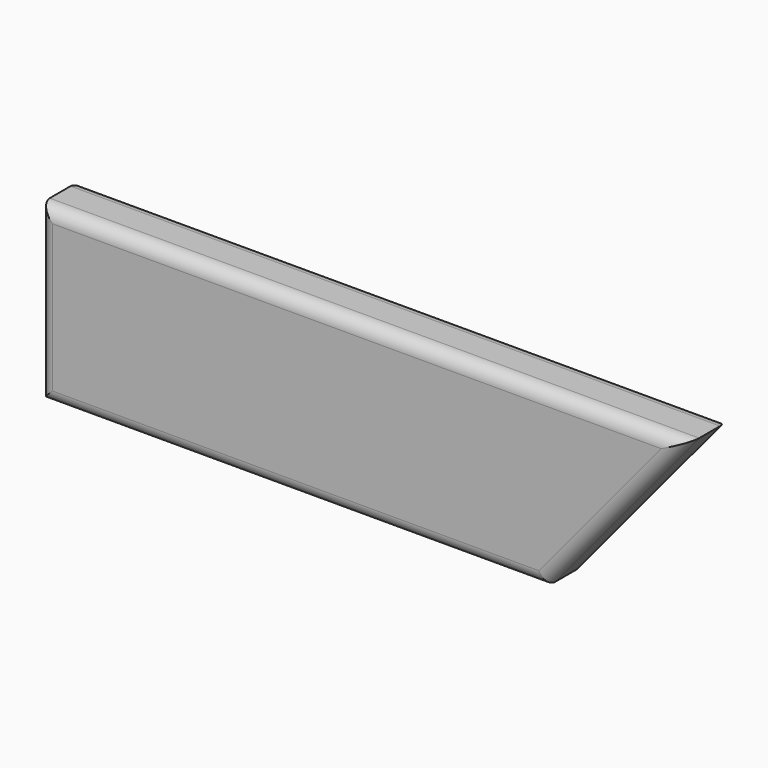
from build123d import *

# Parameters (mm, degrees)
F1_DEPTH = 12
F3_R     = 3


with BuildPart() as f1:
    # F0 (on Front) → F1 (new body)
    with BuildSketch(Plane.XZ):
        Polygon((-479.350195, -2.526657), (-629.350195, -2.526657), (-629.350195, -42.526657), (-512.566566, -42.526657), align=None)
    extrude(amount=F1_DEPTH)

    # F3
    f3_edges = [f1.edges().sort_by_distance(p)[0] for p in [
        (-554.350195, -12, -2.526657),
        (-629.350195, -12, -22.526657),
        (-570.958381, -12, -42.526657),
        (-495.958381, -12, -22.526657),
        (-554.350195, 0, -2.526657),
        (-629.350195, 0, -22.526657),
        (-570.958381, 0, -42.526657),
        (-495.958381, 0, -22.526657),
    ]]
    fillet(f3_edges, radius=F3_R)


solid = f1.part
